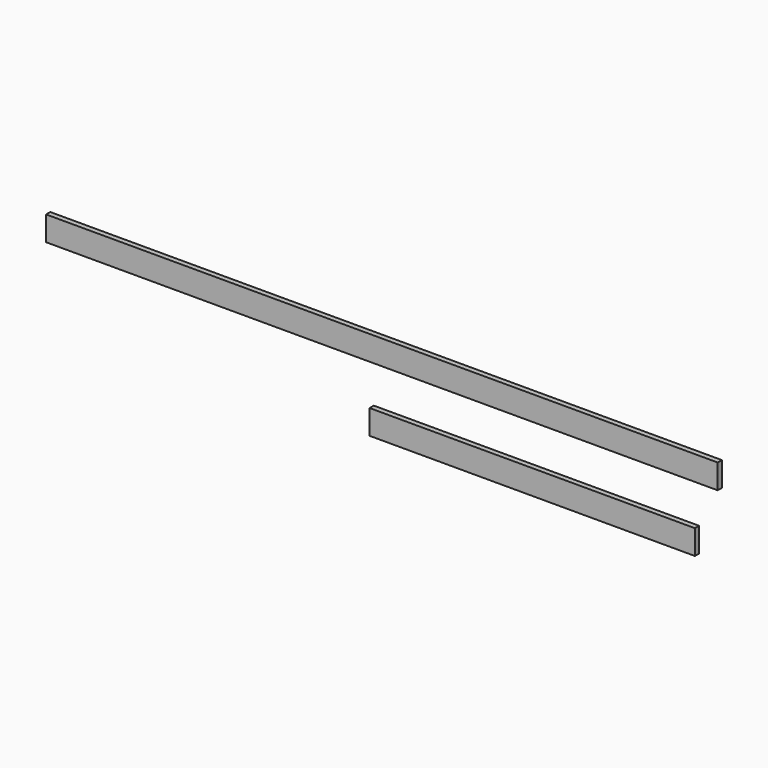
from build123d import *

# Parameters (mm, degrees)
F0_W     = 2438.4
F0_H     = 88.9
F1_DEPTH = 19.05
F0_W_2   = 1181.1
F3_DEPTH = 19.05


with BuildPart() as f1:
    # F0 (on Front) → F1 (new body)
    with BuildSketch(Plane.XZ):
        Rectangle(F0_W, F0_H)
    extrude(amount=F1_DEPTH)


with BuildPart() as f2_1:
    # F2: copy of F1
    add(f1.part)


with BuildPart() as f3:
    # F0 (on Front) → F3 (new body)
    with BuildSketch(Plane.XZ):
        with Locations((545.863597, -236.817852)):
            Rectangle(F0_W_2, F0_H)
    extrude(amount=F3_DEPTH)


solid = Compound([f1.part, f2_1.part, f3.part])
